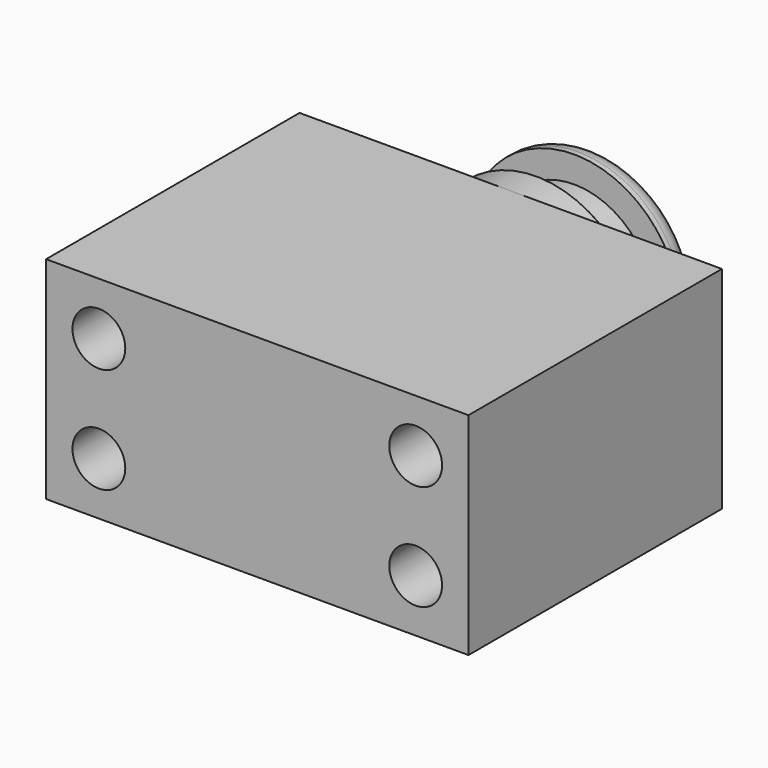
from build123d import *

# Parameters (mm, degrees)
F0_W     = 101.6
F0_H     = 50.8
F1_DEPTH = 76.2
F2_R     = 6.35
F3_DEPTH = 76.201
F4_W     = 25.4
F4_H     = 25.4
F6_W     = 6.35
F6_H     = 6.35
F8_R     = 5.08
F9_SIZE  = 5.08


with BuildPart() as f1:
    # F0 (on Front) → F1 (new body)
    with BuildSketch(Plane.XZ):
        Rectangle(F0_W, F0_H)
    extrude(amount=F1_DEPTH)

    # F2 (on face) → F3 (cut, through all)
    with BuildSketch(Plane.XZ.offset(76.2)):
        with Locations((-38.1, 12.7)):
            Circle(F2_R)
        with Locations((-38.1, -12.7)):
            Circle(F2_R)
        with Locations((38.1, 12.7)):
            Circle(F2_R)
        with Locations((38.1, -12.7)):
            Circle(F2_R)
    extrude(amount=-F3_DEPTH, mode=Mode.SUBTRACT)

    # F4 (on Top) → F5 (revolve)
    with BuildSketch(Plane.XY):
        with Locations((-12.7, 12.7)):
            Rectangle(F4_W, F4_H)
    revolve(axis=Axis((0, 12.7, 0), (0, -1, 0)))

    # F6 (on Top) → F7 (revolve, cut)
    with BuildSketch(Plane.XY):
        with Locations((-22.225, 15.875)):
            Rectangle(F6_W, F6_H)
    revolve(axis=Axis((0, -10.316852, 0), (0, -1, 0)), mode=Mode.SUBTRACT)

    # F8
    f8_edges = [f1.edges().sort_by_distance(p)[0] for p in [
        (25.4, 25.4, 0),
    ]]
    fillet(f8_edges, radius=F8_R)

    # F9
    f9_edges = [f1.edges().sort_by_distance(p)[0] for p in [
        (25.4, 12.7, 0),
    ]]
    chamfer(f9_edges, length=F9_SIZE)


solid = f1.part
